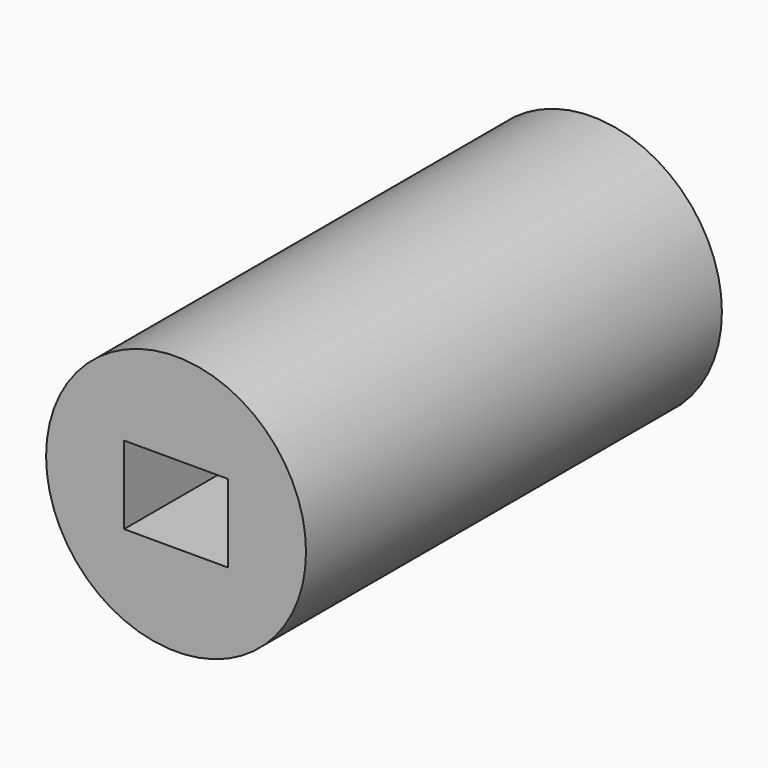
from build123d import *

# Parameters (mm, degrees)
F0_R     = 25
F1_DEPTH = 50
F2_W     = 20
F2_H     = 15
F3_DEPTH = 60


with BuildPart() as f1:
    # F0 (on Front) → F1 (new body, symmetric)
    with BuildSketch(Plane.XZ):
        Circle(F0_R)
    extrude(amount=F1_DEPTH, both=True)

    # F2 (on Front) → F3 (cut, symmetric)
    with BuildSketch(Plane.XZ):
        Rectangle(F2_W, F2_H)
    extrude(amount=F3_DEPTH, both=True, mode=Mode.SUBTRACT)


solid = f1.part
